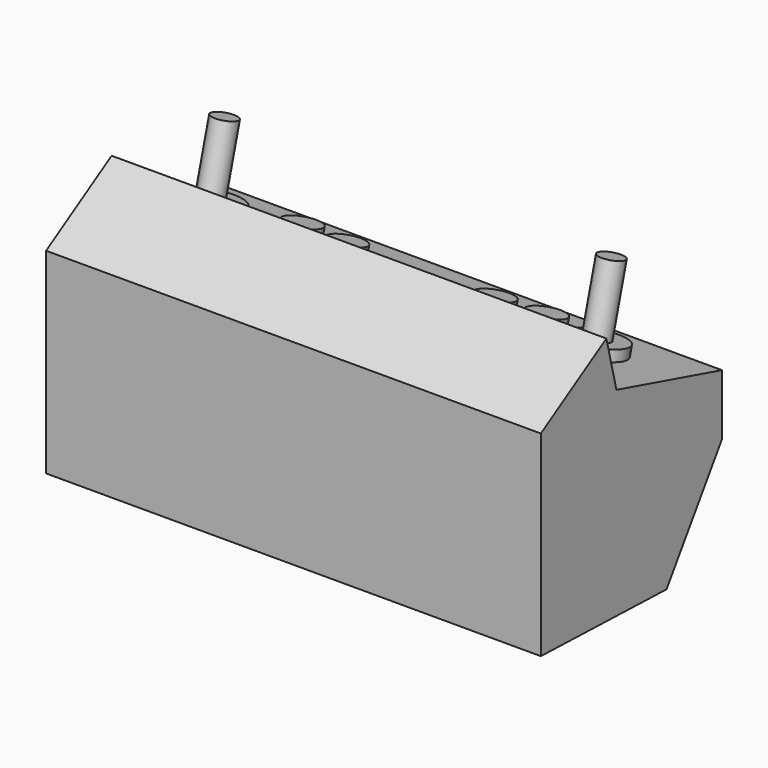
from build123d import *

# Parameters (mm, degrees)
F1_DEPTH = 65
F2_R     = 2
F3_R     = 2.548945
F3_R_2   = 2.548946
F3_R_3   = 2.548929
F3_R_4   = 4.347674
F3_R_5   = 3.974959
F4_DEPTH = 1.5
F5_R     = 1.75256
F5_R_2   = 1.752559
F6_DEPTH = 11.2
F7_DEPTH = 71


with BuildPart() as f1:
    # F0 (on Right) → F1 (new body)
    with BuildSketch(Plane.YZ):
        Polygon((0, -10.475962), (22.549306, -11.196655), (32.483309, 3.704351), (32.483309, 12.455739), (13.561399, 17.659265), (11.756126, 24.880352), (0, 17.659265), align=None)
    extrude(amount=F1_DEPTH)

    # F2
    f2_edges = [f1.edges().sort_by_distance(p)[0] for p in [
        (32.5, 32.483309, 3.704351),
        (32.5, 32.483309, 12.455739),
    ]]
    fillet(f2_edges, radius=F2_R)

    # F3 (on face) → F4 (join)
    with BuildSketch(Plane(origin=(0, 5.468337, 19.884858), x_dir=(1, 0, 0), z_dir=(0, 0.265157, 0.964205))):
        with Locations((50.906317, 21.071024)):
            Circle(F3_R)
        with Locations((44.022555, 20.437524)):
            Circle(F3_R)
        with Locations((44.650806, 13.906249)):
            Circle(F3_R_2)
        with Locations((51.875702, 14.267603)):
            Circle(F3_R)
        with Locations((22.165647, 13.906249)):
            Circle(F3_R)
        with Locations((15.557256, 13.906249)):
            Circle(F3_R)
        with Locations((15.832605, 21.071026)):
            Circle(F3_R)
        with Locations((22.716347, 20.437526)):
            Circle(F3_R_3)
        with Locations((5.347674, 17.519839)):
            Circle(F3_R_4)
        with Locations((60.025041, 18.603914)):
            Circle(F3_R_5)
    extrude(amount=F4_DEPTH)

    # F5 (on face) → F6 (join)
    with BuildSketch(Plane(origin=(0, 5.468337, 19.884858), x_dir=(1, 0, 0), z_dir=(0, 0.265157, 0.964205))):
        with Locations((60.025041, 18.603914)):
            Circle(F5_R)
        with Locations((5.347674, 17.519839)):
            Circle(F5_R_2)
    extrude(amount=F6_DEPTH)

    # F0 (on Right) → F7 (join)
    with BuildSketch(Plane.YZ):
        Polygon((0, -10.475962), (22.549306, -11.196655), (32.483309, 3.704351), (32.483309, 12.455739), (13.561399, 17.659265), (11.756126, 24.880352), (0, 17.659265), align=None)
    extrude(amount=F7_DEPTH)


solid = f1.part
